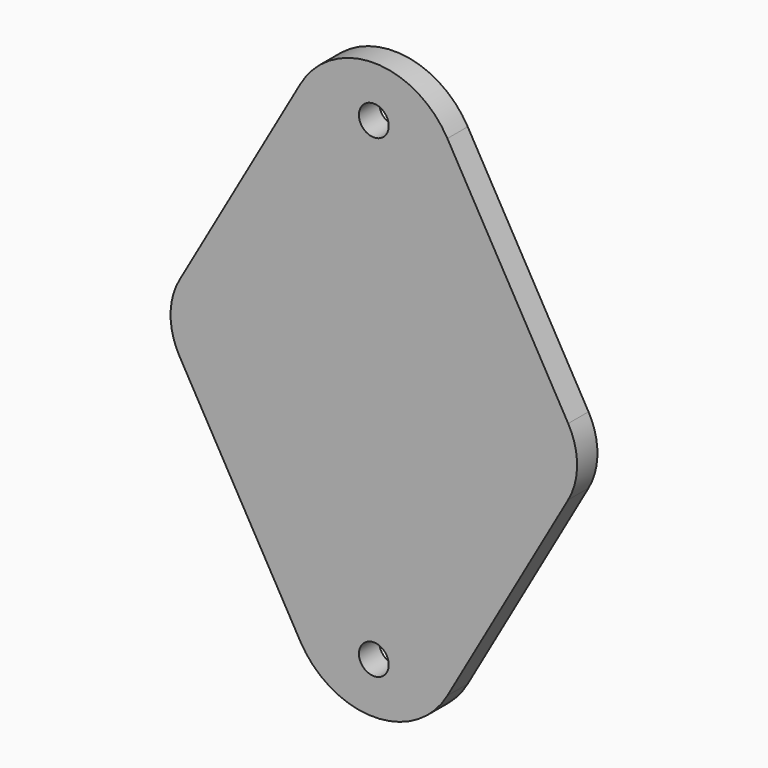
from build123d import *

# Parameters (mm, degrees)
F0_R     = 2.794
F1_DEPTH = 2.38125


with BuildPart() as f1:
    # F0 (on Front) → F1 (new body, symmetric)
    with BuildSketch(Plane.XZ):
        with BuildLine():
            ThreePointArc((13.787585, 45.968807), (0, 53.975), (-13.787585, 45.968807))
            Line((-13.787585, 45.968807), (-36.430068, 6.295045))
            ThreePointArc((-36.430068, 6.295045), (-38.1, 0), (-36.430068, -6.295045))
            Line((-36.430068, -6.295045), (-13.787585, -45.968807))
            ThreePointArc((-13.787585, -45.968807), (0, -53.975), (13.787585, -45.968807))
            Line((13.787585, -45.968807), (36.430068, -6.295045))
            ThreePointArc((36.430068, -6.295045), (38.1, 0), (36.430068, 6.295045))
            Line((36.430068, 6.295045), (13.787585, 45.968807))
        make_face()
        with Locations((0, -44.45)):
            Circle(F0_R, mode=Mode.SUBTRACT)
        with Locations((0, 44.45)):
            Circle(F0_R, mode=Mode.SUBTRACT)
    extrude(amount=F1_DEPTH, both=True)


solid = f1.part
